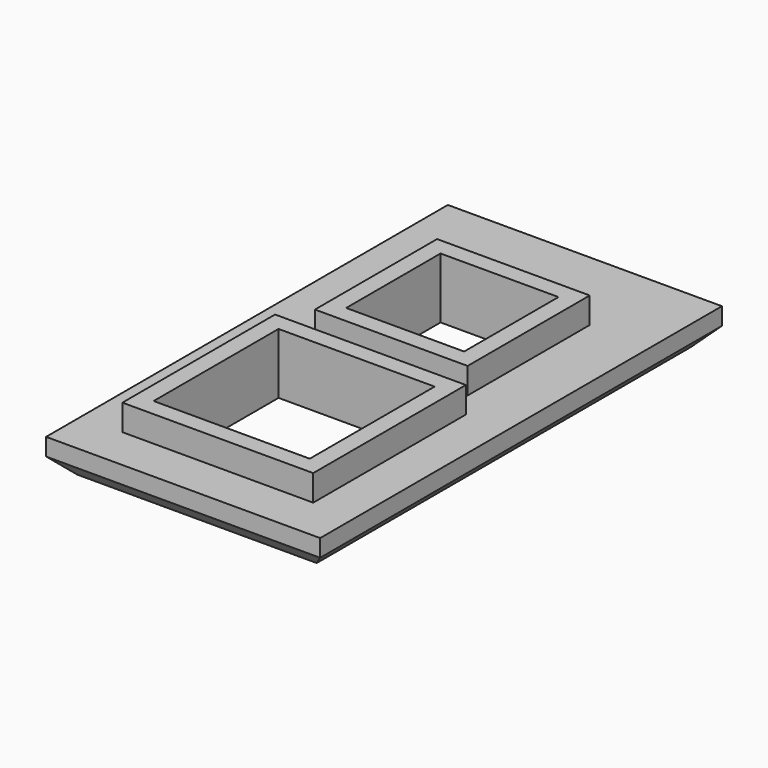
from build123d import *

# Parameters (mm, degrees)
F0_W     = 31.6
F0_H     = 57.9
F0_W_2   = 25.6
F0_H_2   = 51.9
F0_W_3   = 22
F0_H_3   = 22
F0_W_4   = 17.6
F0_H_4   = 17.6
F0_W_5   = 18
F0_H_5   = 18
F0_W_6   = 13.6
F0_H_6   = 13.6
F2_DEPTH = 4
F3_START = 4
F3_DEPTH = 3
F4_SIZE  = 2


with BuildPart() as f2:
    # F0 (on Top) → F2 (new body)
    with BuildSketch(Plane.XY):
        with Locations((-12.8, 25.95)):
            Rectangle(F0_W, F0_H)
        with Locations((-12.8, 25.95)):
            Rectangle(F0_W_2, F0_H_2, mode=Mode.SUBTRACT)
        with Locations((-12.8, 25.95)):
            Rectangle(F0_W_2, F0_H_2)
        with Locations((-12.8, 13)):
            Rectangle(F0_W_3, F0_H_3, mode=Mode.SUBTRACT)
        with Locations((-12.8, 35.8)):
            Rectangle(F0_W_4, F0_H_4, mode=Mode.SUBTRACT)
        with Locations((-12.8, 13)):
            Rectangle(F0_W_3, F0_H_3)
        with Locations((-12.8, 13)):
            Rectangle(F0_W_5, F0_H_5, mode=Mode.SUBTRACT)
        with Locations((-12.8, 35.8)):
            Rectangle(F0_W_4, F0_H_4)
        with Locations((-12.8, 35.8)):
            Rectangle(F0_W_6, F0_H_6, mode=Mode.SUBTRACT)
    extrude(amount=F2_DEPTH)

    # F0 (on Top) → F3 (join)
    with BuildSketch(Plane.XY.offset(F3_START)):
        with Locations((-12.8, 35.8)):
            Rectangle(F0_W_4, F0_H_4)
        with Locations((-12.8, 35.8)):
            Rectangle(F0_W_6, F0_H_6, mode=Mode.SUBTRACT)
        with Locations((-12.8, 13)):
            Rectangle(F0_W_3, F0_H_3)
        with Locations((-12.8, 13)):
            Rectangle(F0_W_5, F0_H_5, mode=Mode.SUBTRACT)
    extrude(amount=F3_DEPTH)

    # F4
    f4_edges = [f2.edges().sort_by_distance(p)[0] for p in [
        (-28.6, 25.95, 0),
        (-12.8, -3, 0),
        (3, 25.95, 0),
        (-12.8, 54.9, 0),
    ]]
    chamfer(f4_edges, length=F4_SIZE)


solid = f2.part
